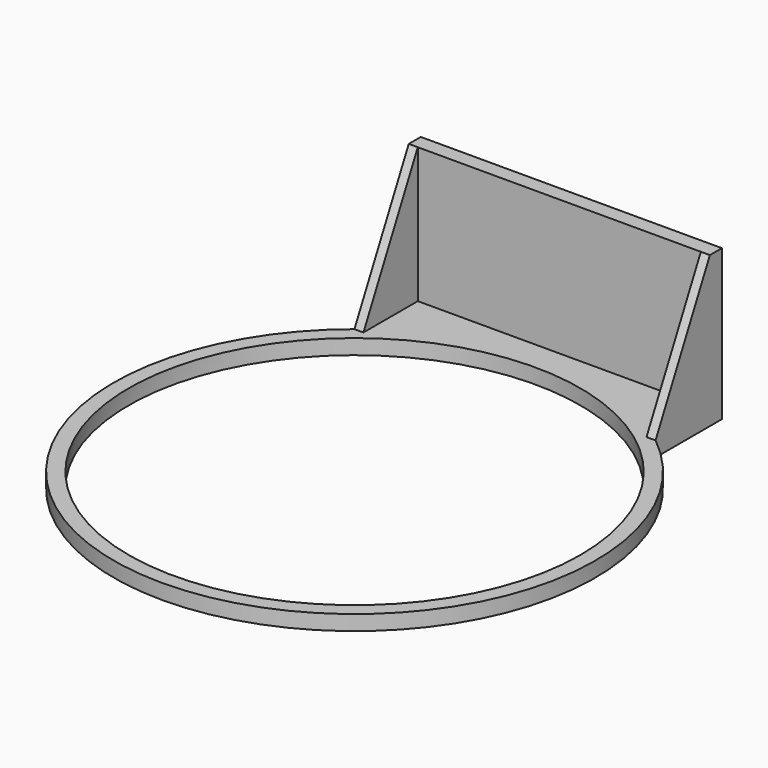
from build123d import *

# Parameters (mm, degrees)
F0_R     = 75
F0_W     = 100
F0_H     = 5
F1_DEPTH = 5
F2_DEPTH = 50
F4_DEPTH = 3


with BuildPart() as f1:
    # F0 (on Top) → F1 (new body)
    with BuildSketch(Plane.XY):
        with BuildLine():
            ThreePointArc((-50, 62.449979984), (-34.6410161514, -72.1110255093), (80, 0))
            ThreePointArc((80, 0), (72.1110255093, 34.6410161514), (50, 62.449979984))
            ThreePointArc((50, 62.449979984), (0, 80), (-50, 62.449979984))
        make_face()
        Circle(F0_R, mode=Mode.SUBTRACT)
        with BuildLine():
            ThreePointArc((-50, 62.449979984), (0, 80), (50, 62.449979984))
            Line((50, 62.449979984), (50, 85))
            Line((50, 85), (-50, 85))
            Line((-50, 85), (-50, 62.449979984))
        make_face()
        with Locations((0, 87.5)):
            Rectangle(F0_W, F0_H)
    extrude(amount=F1_DEPTH)

    # F0 (on Top) → F2 (join)
    with BuildSketch(Plane.XY):
        with Locations((0, 87.5)):
            Rectangle(F0_W, F0_H)
    extrude(amount=F2_DEPTH)

    # F3 (on face) → F4 (join)
    with BuildSketch(Plane.YZ.offset(50)):
        Polygon((85, 5), (85, 50), (62.449979984, 5), align=None)
    extrude(amount=-F4_DEPTH)

    # F5: F1 across plane


with BuildPart() as f1_1:
    add(f1.part)
    add(f1.part.mirror(Plane.YZ))


solid = f1_1.part
